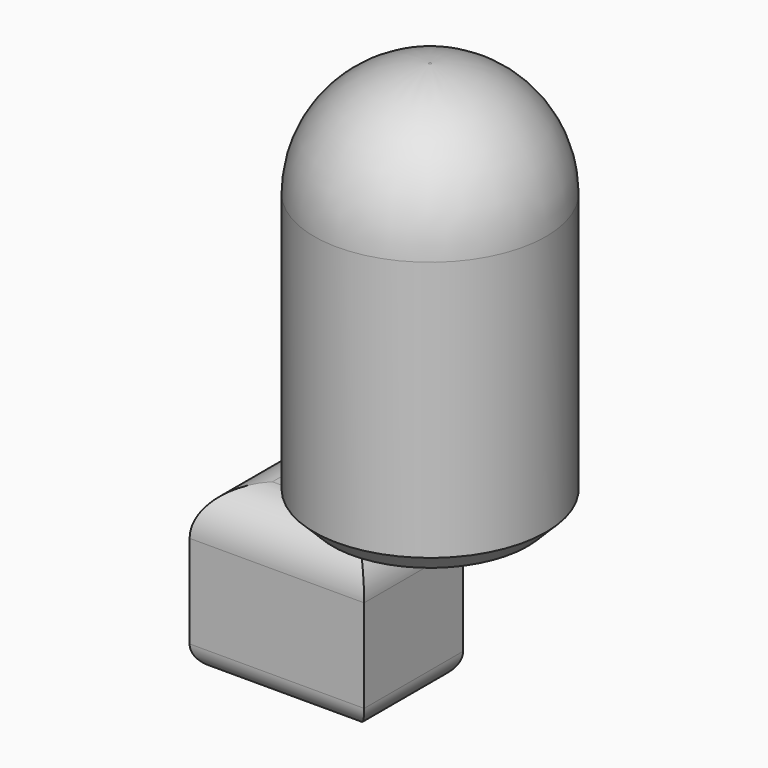
from build123d import *

# Parameters (mm, degrees)
F0_R     = 32.232138
F1_DEPTH = 109.264171
F2_W     = 48.502128
F2_H     = 45.15865
F3_DEPTH = 34.356315
F4_R     = 6.545236
F5_R     = 12.789297
F6_R     = 31.863537
F7_SIZE  = 5.08


with BuildPart() as f1:
    # F0 (on Top) → F1 (new body)
    with BuildSketch(Plane.XY):
        with Locations((0, 7.595725)):
            Circle(F0_R)
    extrude(amount=F1_DEPTH)

    # F6
    f6_edges = [f1.edges().sort_by_distance(p)[0] for p in [
        (-32.232138, 7.595725, 109.264171),
    ]]
    fillet(f6_edges, radius=F6_R)

    # F7
    f7_edges = [f1.edges().sort_by_distance(p)[0] for p in [
        (-32.232138, 7.595725, 0),
    ]]
    chamfer(f7_edges, length=F7_SIZE)


with BuildPart() as f3:
    # F2 (on Front) → F3 (new body)
    with BuildSketch(Plane.XZ):
        with Locations((-36.495721, -33.36096)):
            Rectangle(F2_W, F2_H)
    extrude(amount=-F3_DEPTH)

    # F4
    f4_edges = [f3.edges().sort_by_distance(p)[0] for p in [
        (-60.746785, 17.178157, -55.940285),
        (-12.244657, 17.178157, -55.940285),
        (-36.495721, 0, -55.940285),
        (-36.495721, 34.356315, -55.940285),
    ]]
    fillet(f4_edges, radius=F4_R)

    # F5
    f5_edges = [f3.edges().sort_by_distance(p)[0] for p in [
        (-12.244657, 17.178157, -10.781635),
        (-60.746785, 17.178157, -10.781635),
        (-36.495721, 0, -10.781635),
        (-36.495721, 34.356315, -10.781635),
    ]]
    fillet(f5_edges, radius=F5_R)


solid = Compound([f1.part, f3.part])
